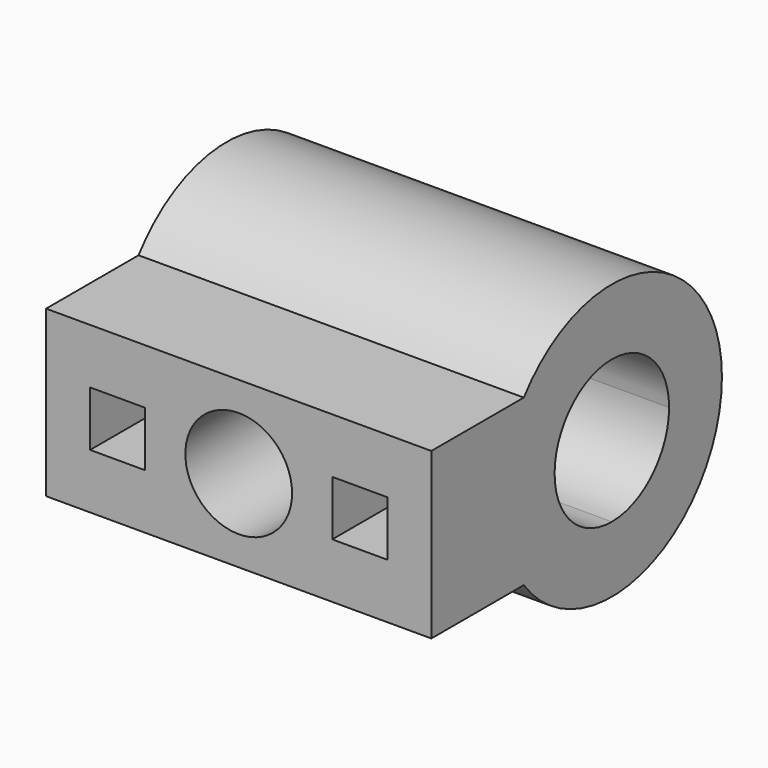
from build123d import *

# Parameters (mm, degrees)
F0_W     = 70
F0_H     = 30
F1_DEPTH = 41
F2_W     = 10
F2_H     = 10
F2_R     = 9.6999339811
F3_DEPTH = 41
F5_DEPTH = 70
F6_DEPTH = 70


with BuildPart() as f1:
    # F0 (on Front) → F1 (new body)
    with BuildSketch(Plane.XZ):
        with Locations((35, 15)):
            Rectangle(F0_W, F0_H)
    extrude(amount=-F1_DEPTH)

    # F2 (on face) → F3 (cut)
    with BuildSketch(Plane.XZ):
        with Locations((13, 15)):
            Rectangle(F2_W, F2_H)
        with Locations((35, 15)):
            Circle(F2_R)
        with Locations((57, 15)):
            Rectangle(F2_W, F2_H)
    extrude(amount=-F3_DEPTH, mode=Mode.SUBTRACT)

    # F4 (on face) → F5 (join)
    with BuildSketch(Plane.YZ.offset(70)):
        with BuildLine():
            ThreePointArc((54, 15), (50.1923881554, 24.1923881554), (41, 28))
            Line((41, 28), (41, 2))
            ThreePointArc((41, 2), (50.1923881554, 5.8076118446), (54, 15))
        make_face()
        with BuildLine():
            Line((41, 2), (41, 28))
            ThreePointArc((41, 28), (28, 15), (41, 2))
        make_face()
        with BuildLine():
            ThreePointArc((21, 0), (48.9056941504, -8.7170824513), (66, 15))
            ThreePointArc((66, 15), (48.9056941504, 38.7170824513), (21, 30))
            Line((21, 30), (41, 30))
            Line((41, 30), (41, 28))
            ThreePointArc((41, 28), (50.1923881554, 24.1923881554), (54, 15))
            ThreePointArc((54, 15), (50.1923881554, 5.8076118446), (41, 2))
            Line((41, 2), (41, 0))
            Line((41, 0), (21, 0))
        make_face()
    extrude(amount=-F5_DEPTH)

    # F4 (on face) → F6 (cut)
    with BuildSketch(Plane.YZ.offset(70)):
        with BuildLine():
            ThreePointArc((54, 15), (50.1923881554, 24.1923881554), (41, 28))
            Line((41, 28), (41, 2))
            ThreePointArc((41, 2), (50.1923881554, 5.8076118446), (54, 15))
        make_face()
        with BuildLine():
            Line((41, 2), (41, 28))
            ThreePointArc((41, 28), (28, 15), (41, 2))
        make_face()
    extrude(amount=-F6_DEPTH, mode=Mode.SUBTRACT)


solid = f1.part
